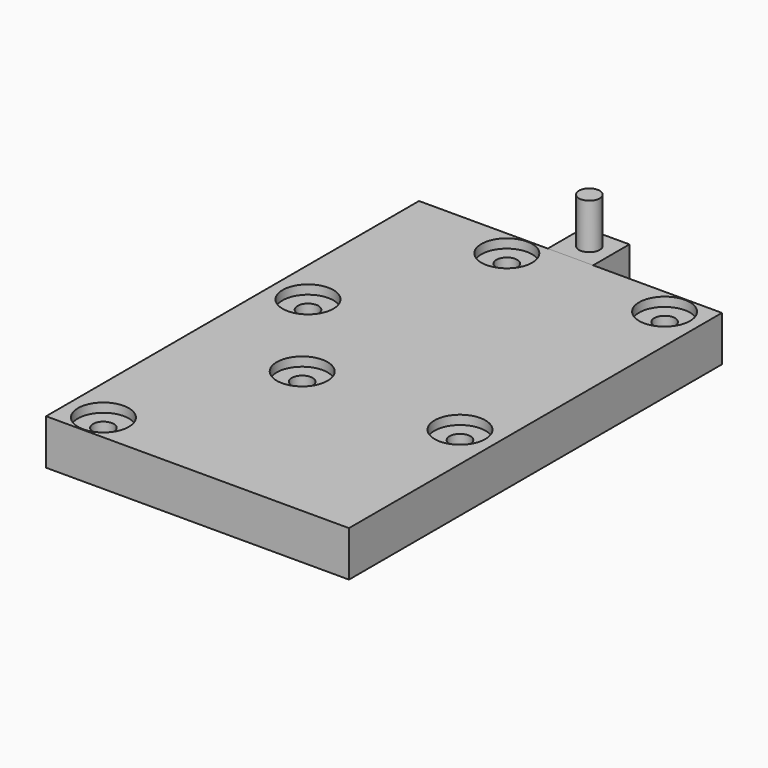
from build123d import *

# Parameters (mm, degrees)
CYLINDER001_R                 = 1.15
CYLINDER001_DEPTH             = 10
CYLINDER002_R                 = 2.8
CYLINDER002_DEPTH             = 1
CYLINDER001001_R              = 1.15
CYLINDER001001_DEPTH          = 10
CYLINDER002001_R              = 2.8
CYLINDER002001_DEPTH          = 1
CYLINDER001001001_R           = 1.15
CYLINDER001001001_DEPTH       = 10
CYLINDER002001001_R           = 2.8
CYLINDER002001001_DEPTH       = 1
CYLINDER001001001001_R        = 1.15
CYLINDER001001001001_DEPTH    = 10
CYLINDER002001001001_R        = 2.8
CYLINDER002001001001_DEPTH    = 1
CYLINDER001001001001001_R     = 1.15
CYLINDER001001001001001_DEPTH = 10
CYLINDER002001001002_R        = 2.8
CYLINDER002001001002_DEPTH    = 1
CYLINDER001001001001002_R     = 1.15
CYLINDER001001001001002_DEPTH = 10
CYLINDER_R                    = 2.8
CYLINDER_DEPTH                = 1
BOX_W                         = 33.400002
BOX_H                         = 51.400002
BOX_DEPTH                     = 5
BOX001_W                      = 5
BOX001_H                      = 5
BOX001_DEPTH                  = 5
CYLINDER001001001001003_R     = 1.15
CYLINDER001001001001003_DEPTH = 10


with BuildPart() as cylinder001:
    # Cylinder001 → Cylinder001 (new body)
    with BuildSketch(Plane(origin=(4, 2.9, 0), x_dir=(1, 0, 0), z_dir=(0, 0, 1))):
        Circle(CYLINDER001_R)
    extrude(amount=CYLINDER001_DEPTH)


with BuildPart() as cylinder002:
    # Cylinder002 → Cylinder002 (new body)
    with BuildSketch(Plane(origin=(4, 31.1, 4), x_dir=(1, 0, 0), z_dir=(0, 0, 1))):
        Circle(CYLINDER002_R)
    extrude(amount=CYLINDER002_DEPTH)


with BuildPart() as cylinder001001:
    # Cylinder001001 → Cylinder001001 (new body)
    with BuildSketch(Plane(origin=(4, 31.1, 0), x_dir=(1, 0, 0), z_dir=(0, 0, 1))):
        Circle(CYLINDER001001_R)
    extrude(amount=CYLINDER001001_DEPTH)


with BuildPart() as cylinder002001:
    # Cylinder002001 → Cylinder002001 (new body)
    with BuildSketch(Plane(origin=(12, 20.3, 4), x_dir=(1, 0, 0), z_dir=(0, 0, 1))):
        Circle(CYLINDER002001_R)
    extrude(amount=CYLINDER002001_DEPTH)


with BuildPart() as cylinder001001001:
    # Cylinder001001001 → Cylinder001001001 (new body)
    with BuildSketch(Plane(origin=(12, 20.3, 0), x_dir=(1, 0, 0), z_dir=(0, 0, 1))):
        Circle(CYLINDER001001001_R)
    extrude(amount=CYLINDER001001001_DEPTH)


with BuildPart() as cylinder002001001:
    # Cylinder002001001 → Cylinder002001001 (new body)
    with BuildSketch(Plane(origin=(12, 48.5, 4), x_dir=(1, 0, 0), z_dir=(0, 0, 1))):
        Circle(CYLINDER002001001_R)
    extrude(amount=CYLINDER002001001_DEPTH)


with BuildPart() as cylinder001001001001:
    # Cylinder001001001001 → Cylinder001001001001 (new body)
    with BuildSketch(Plane(origin=(12, 48.5, 0), x_dir=(1, 0, 0), z_dir=(0, 0, 1))):
        Circle(CYLINDER001001001001_R)
    extrude(amount=CYLINDER001001001001_DEPTH)


with BuildPart() as cylinder002001001001:
    # Cylinder002001001001 → Cylinder002001001001 (new body)
    with BuildSketch(Plane(origin=(29.4, 48.5, 4), x_dir=(1, 0, 0), z_dir=(0, 0, 1))):
        Circle(CYLINDER002001001001_R)
    extrude(amount=CYLINDER002001001001_DEPTH)


with BuildPart() as cylinder001001001001001:
    # Cylinder001001001001001 → Cylinder001001001001001 (new body)
    with BuildSketch(Plane(origin=(29.4, 48.5, 0), x_dir=(1, 0, 0), z_dir=(0, 0, 1))):
        Circle(CYLINDER001001001001001_R)
    extrude(amount=CYLINDER001001001001001_DEPTH)


with BuildPart() as cylinder002001001002:
    # Cylinder002001001002 → Cylinder002001001002 (new body)
    with BuildSketch(Plane(origin=(29.4, 20.3, 4), x_dir=(1, 0, 0), z_dir=(0, 0, 1))):
        Circle(CYLINDER002001001002_R)
    extrude(amount=CYLINDER002001001002_DEPTH)


with BuildPart() as cylinder001001001001002:
    # Cylinder001001001001002 → Cylinder001001001001002 (new body)
    with BuildSketch(Plane(origin=(29.4, 20.3, 0), x_dir=(1, 0, 0), z_dir=(0, 0, 1))):
        Circle(CYLINDER001001001001002_R)
    extrude(amount=CYLINDER001001001001002_DEPTH)


with BuildPart() as cylinder:
    # Cylinder → Cylinder (new body)
    with BuildSketch(Plane(origin=(4, 2.9, 4), x_dir=(1, 0, 0), z_dir=(0, 0, 1))):
        Circle(CYLINDER_R)
    extrude(amount=CYLINDER_DEPTH)


with BuildPart() as cut011:
    # Box → Box (new body)
    with BuildSketch(Plane.XY):
        with Locations((16.700001, 25.700001)):
            Rectangle(BOX_W, BOX_H)
    extrude(amount=BOX_DEPTH)

    # Cut: cut Cylinder
    add(cylinder.part, mode=Mode.SUBTRACT)

    # Cut001: cut Cylinder001001001001002
    add(cylinder001001001001002.part, mode=Mode.SUBTRACT)

    # Cut002: cut Cylinder002001001002
    add(cylinder002001001002.part, mode=Mode.SUBTRACT)

    # Cut003: cut Cylinder001001001001001
    add(cylinder001001001001001.part, mode=Mode.SUBTRACT)

    # Cut004: cut Cylinder002001001001
    add(cylinder002001001001.part, mode=Mode.SUBTRACT)

    # Cut005: cut Cylinder001001001001
    add(cylinder001001001001.part, mode=Mode.SUBTRACT)

    # Cut006: cut Cylinder002001001
    add(cylinder002001001.part, mode=Mode.SUBTRACT)

    # Cut007: cut Cylinder001001001
    add(cylinder001001001.part, mode=Mode.SUBTRACT)

    # Cut008: cut Cylinder002001
    add(cylinder002001.part, mode=Mode.SUBTRACT)

    # Cut009: cut Cylinder001001
    add(cylinder001001.part, mode=Mode.SUBTRACT)

    # Cut010: cut Cylinder002
    add(cylinder002.part, mode=Mode.SUBTRACT)

    # Cut011: cut Cylinder001
    add(cylinder001.part, mode=Mode.SUBTRACT)


with BuildPart() as box001:
    # Box001 → Box001 (new body)
    with BuildSketch(Plane(origin=(14.2, 51.4, 0), x_dir=(1, 0, 0), z_dir=(0, 0, 1))):
        with Locations((2.5, 2.5)):
            Rectangle(BOX001_W, BOX001_H)
    extrude(amount=BOX001_DEPTH)


with BuildPart() as cylinder001001001001003:
    # Cylinder001001001001003 → Cylinder001001001001003 (new body)
    with BuildSketch(Plane(origin=(16.7, 54, 0), x_dir=(1, 0, 0), z_dir=(0, 0, 1))):
        Circle(CYLINDER001001001001003_R)
    extrude(amount=CYLINDER001001001001003_DEPTH)


solid = Compound([cut011.part, box001.part, cylinder001001001001003.part])
